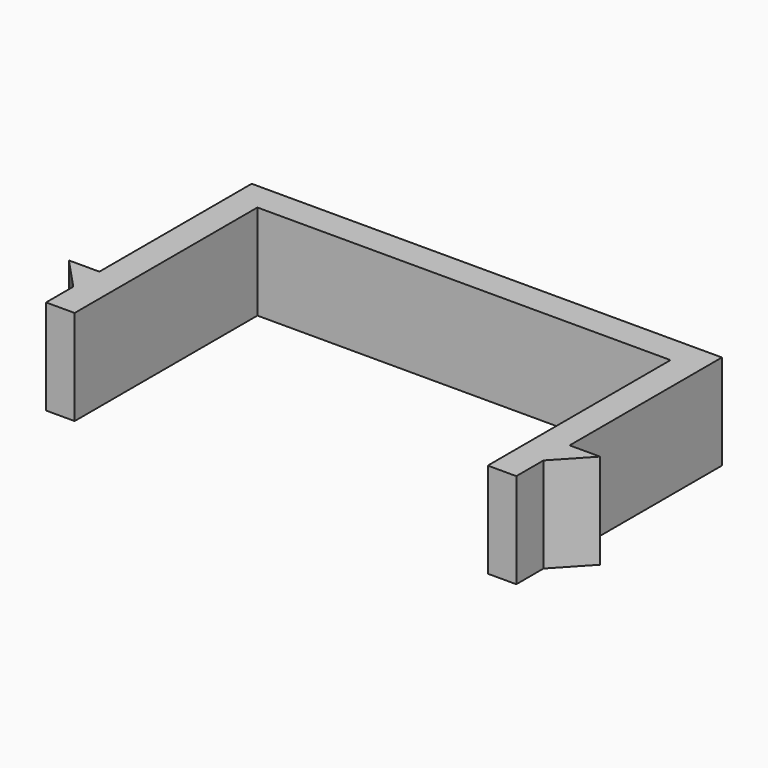
from build123d import *

# Parameters (mm, degrees)
F1_DEPTH = 10


with BuildPart() as f1:
    # F0 (on Top) → F1 (new body)
    with BuildSketch(Plane.XY):
        Polygon((24.7, 14), (0, 14), (-24.7, 14), (-24.7, -6), (-27.9, -6), (-24.7, -9.427755), (-24.7, -13), (-21.7, -13), (-21.7, 11), (0, 11), (21.7, 11), (21.7, -13), (24.7, -13), (24.7, -9.427755), (27.9, -6), (24.7, -6), align=None)
    extrude(amount=F1_DEPTH)


solid = f1.part
